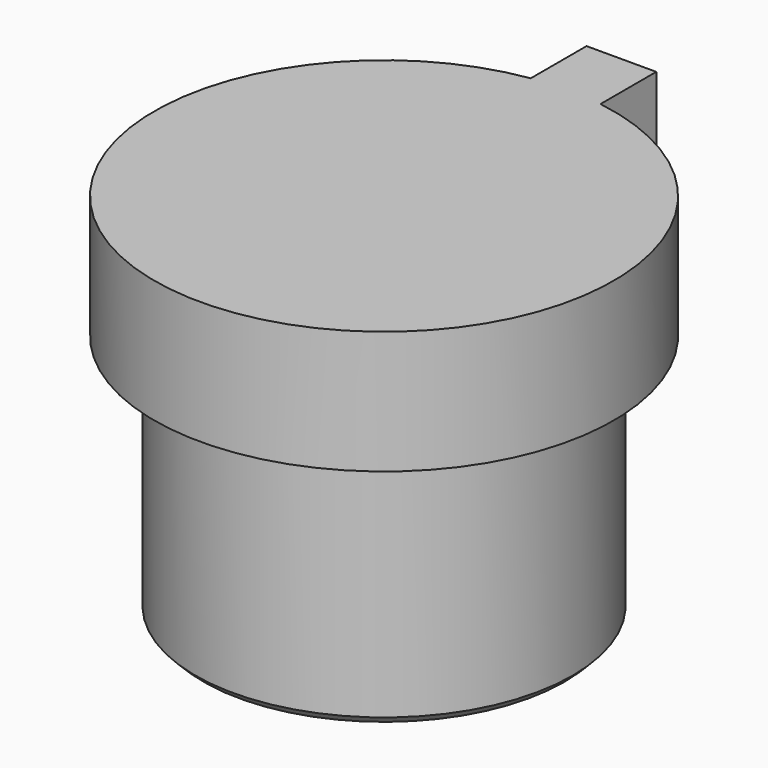
from build123d import *

# Parameters (mm, degrees)
SKETCH049_R     = 2.3
PAD034_DEPTH    = 3
PAD035_DEPTH    = 1.5
POCKET008_DEPTH = 0.6
CHAMFER002_SIZE = 0.1


with BuildPart() as part:
    # Sketch049 → Pad034 (new body)
    with BuildSketch(Plane.XY):
        Circle(SKETCH049_R)
    extrude(amount=PAD034_DEPTH)

    # Sketch050 (on Face3 of Pad034) → Pad035 (join)
    with BuildSketch(Plane.XY.offset(3)):
        with BuildLine():
            Line((0.425, 2.767558), (0.425, 3.617558))
            Line((0.425, 3.617558), (-0.425, 3.617558))
            Line((-0.425, 3.617558), (-0.425, 2.767558))
            ThreePointArc((-0.425, 2.767558), (0, -2.8), (0.425, 2.767558))
        make_face()
    extrude(amount=PAD035_DEPTH)

    # Sketch051 → Pocket008 (cut)
    with BuildSketch(Plane.XY):
        Polygon((0.9, -1.443376), (-1.6, 0), (0.9, 1.443376), align=None)
    extrude(amount=POCKET008_DEPTH, mode=Mode.SUBTRACT)

    # Chamfer002
    chamfer002_edges = [part.edges().sort_by_distance(p)[0] for p in [
        (-0.35, -0.721688, 0),
        (0.9, 0, 0),
        (-0.35, 0.721688, 0),
        (-2.3, 0, 0),
    ]]
    chamfer(chamfer002_edges, length=CHAMFER002_SIZE)


with BuildPart() as part_1:
    # Body014 placement: moved
    add(part.part.moved(Location((63.6, 11.5, -1.5))))


solid = part_1.part
